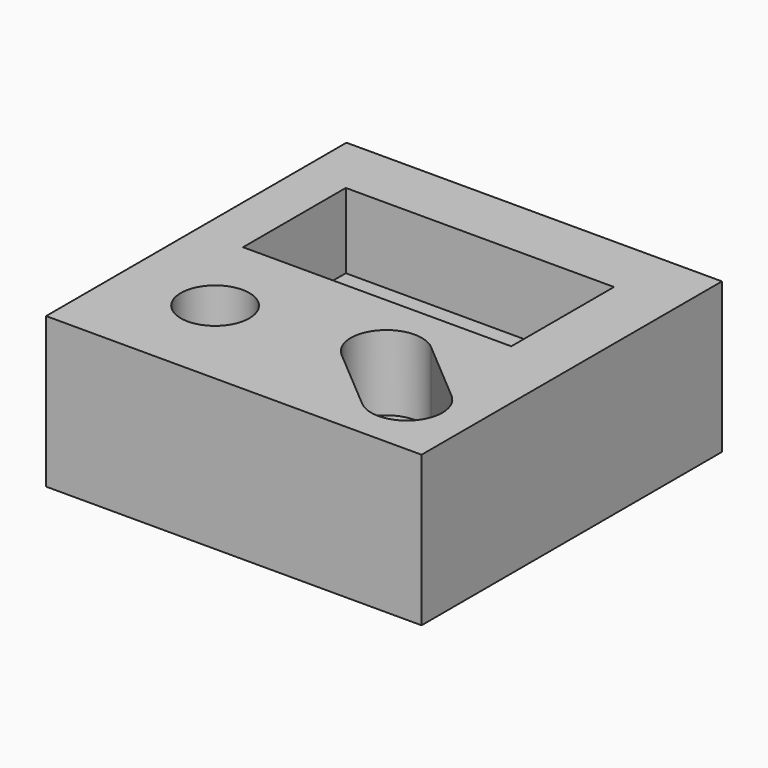
from build123d import *

# Parameters (mm, degrees)
SKETCH_W        = 50
SKETCH_H        = 50
SKETCH_R        = 4.56572
PAD_DEPTH       = 20
SKETCH001_W     = 35.718838
SKETCH001_H     = 17.102667
POCKET_DEPTH    = 10
POCKET001_DEPTH = 10


with BuildPart() as part:
    # Sketch → Pad (new body)
    with BuildSketch(Plane.XY):
        Rectangle(SKETCH_W, SKETCH_H)
        with Locations((-12.739399, -12.190962)):
            Circle(SKETCH_R, mode=Mode.SUBTRACT)
    extrude(amount=-PAD_DEPTH)

    # Sketch001 → Pocket (cut)
    with BuildSketch(Plane.XY):
        with Locations((-0.828983, 8.449547)):
            Rectangle(SKETCH001_W, SKETCH001_H)
    extrude(amount=-POCKET_DEPTH, mode=Mode.SUBTRACT)

    # Sketch002 → Pocket001 (cut)
    with BuildSketch(Plane.XY):
        with BuildLine():
            ThreePointArc((10.613772, -5.440841), (3.942315, -5.985276), (4.48675, -12.656733))
            Line((4.48675, -12.656733), (12.984974, -19.872584))
            ThreePointArc((12.984974, -19.872584), (19.656431, -19.328148), (19.111996, -12.656692))
            Line((10.613772, -5.440841), (19.111996, -12.656692))
        make_face()
    extrude(amount=-POCKET001_DEPTH, mode=Mode.SUBTRACT)


with BuildPart() as part_1:
    # Clone placement: moved
    add(part.part.moved(Location((25, 25, 0))))


solid = part_1.part
